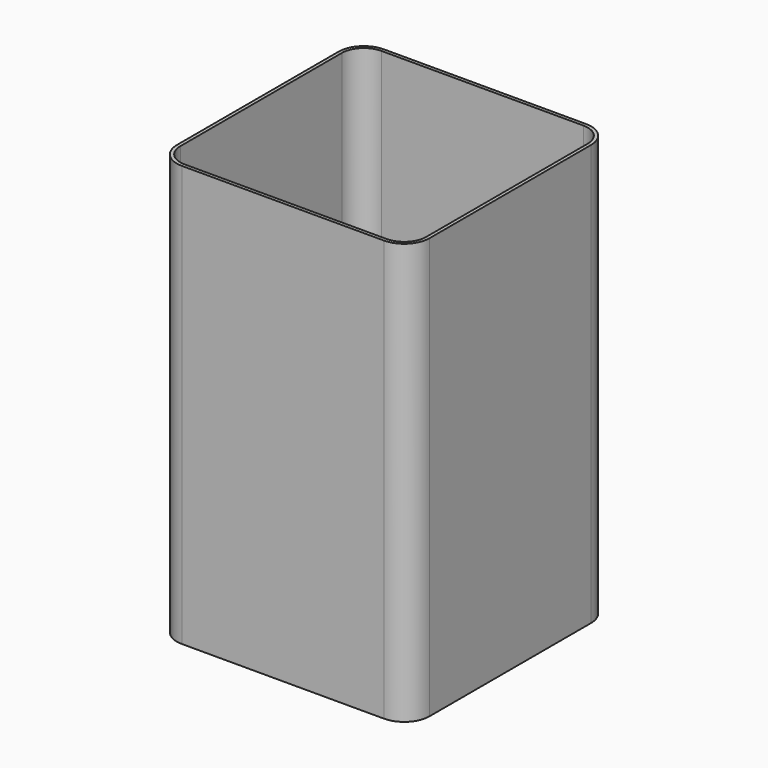
from build123d import *

# Parameters (mm, degrees)
F1_DEPTH = 50
F2_T     = -0.4


with BuildPart() as f1:
    # F0 (on Top) → F1 (new body)
    with BuildSketch(Plane.XY):
        with BuildLine():
            Line((-3, 30), (-27, 30))
            ThreePointArc((-27, 30), (-29.12132, 29.12132), (-30, 27))
            Line((-30, 27), (-30, 3))
            ThreePointArc((-30, 3), (-29.12132, 0.87868), (-27, 0))
            Line((-27, 0), (-3, 0))
            ThreePointArc((-3, 0), (-0.87868, 0.87868), (0, 3))
            Line((0, 3), (0, 27))
            ThreePointArc((0, 27), (-0.87868, 29.12132), (-3, 30))
        make_face()
    extrude(amount=F1_DEPTH)

    # F2
    f2_openings = [f1.faces().sort_by_distance(p)[0] for p in [
        (-15, 15, 50),
    ]]
    offset(amount=F2_T, openings=f2_openings)


solid = f1.part
